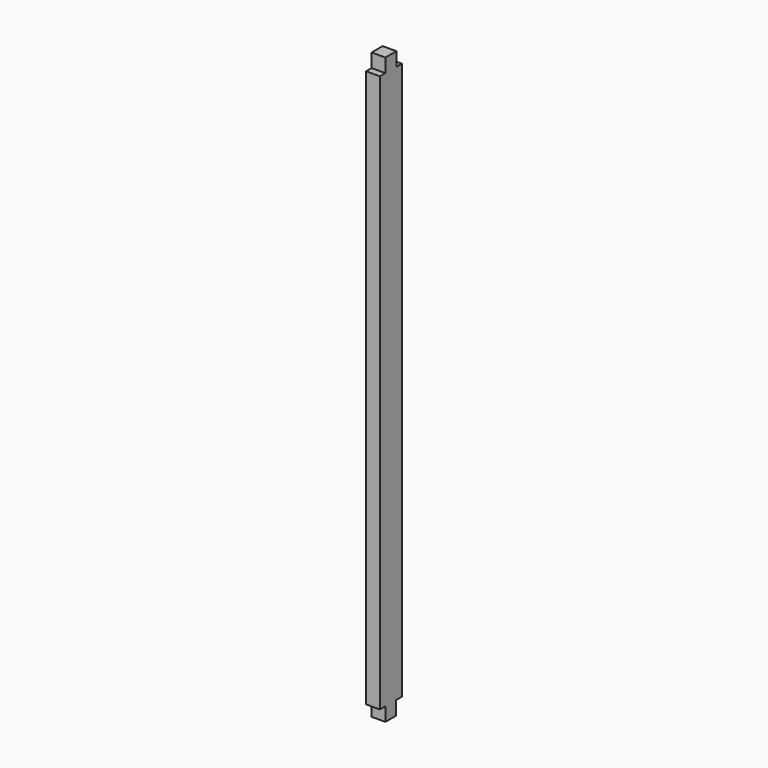
from build123d import *

# Parameters (mm, degrees)
F0_W     = 20
F0_H     = 40
F1_DEPTH = 850
F2_R     = 2.5
F3_DEPTH = 20
F4_W     = 10
F4_H     = 20
F4_W_2   = 10.3488773853
F5_DEPTH = 500


with BuildPart() as f1:
    # F0 (on Top) → F1 (new body)
    with BuildSketch(Plane.XY):
        Rectangle(F0_W, F0_H)
    extrude(amount=F1_DEPTH)

    # F2 (on face) → F3 (cut)
    with BuildSketch(Plane(origin=(0, 20, 0), x_dir=(-1, 0, 0), z_dir=(0, 1, 0))):
        with Locations((0, 555)):
            Circle(F2_R)
        with Locations((0, 705)):
            Circle(F2_R)
        with Locations((0, 255)):
            Circle(F2_R)
        with Locations((0, 105)):
            Circle(F2_R)
        with Locations((0, 405)):
            Circle(F2_R)
    extrude(amount=-F3_DEPTH, mode=Mode.SUBTRACT)

    # F4 (on face) → F5 (cut)
    with BuildSketch(Plane.YZ.offset(10)):
        with Locations((-15, 840)):
            Rectangle(F4_W, F4_H)
        with Locations((15, 840)):
            Rectangle(F4_W, F4_H)
        with Locations((14.8255613074, 10)):
            Rectangle(F4_W_2, F4_H)
        with Locations((-15, 10)):
            Rectangle(F4_W, F4_H)
    extrude(amount=-F5_DEPTH, mode=Mode.SUBTRACT)


solid = f1.part
